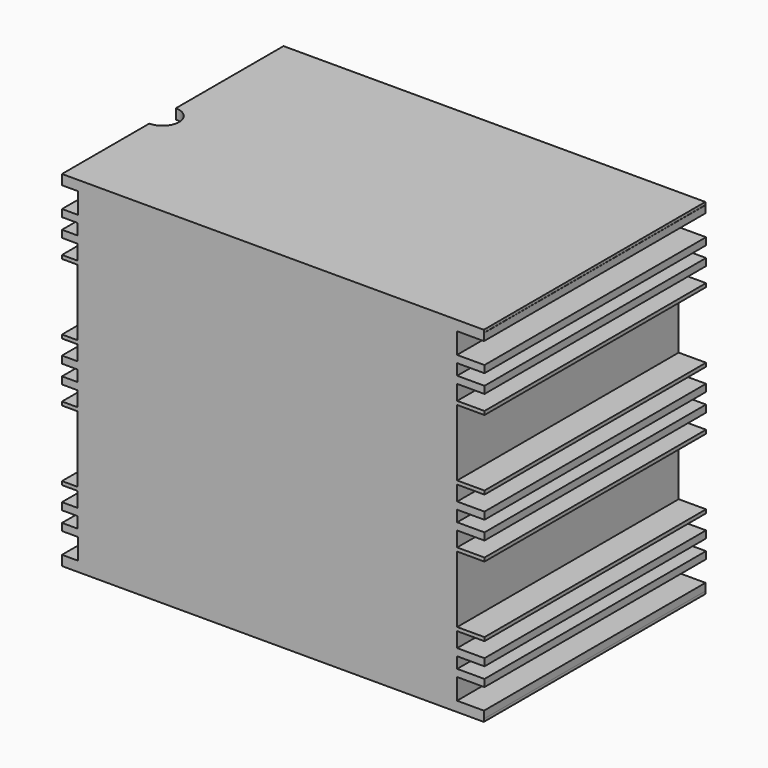
from build123d import *

# Parameters (mm, degrees)
F0_W          = 76.1676803231
F0_H          = 0.5
F0_W_2        = 68.4088433627
F0_H_2        = 3.77
F0_W_3        = 68.5331546701
F0_H_3        = 2.7
F0_H_4        = 2
F0_H_5        = 12
F1_DEPTH      = 50
F2_R          = 3
F3_DEPTH      = 70
F3_DEPTH_BACK = 0.501


with BuildPart() as f1:
    # F0 (on Front) → F1 (new body)
    with BuildSketch(Plane.XZ):
        Polygon((76.1676803231, 0), (0, 0), (0, -1.3), (2.9238497373, -1.3), (71.3326931, -1.3), (76.1956498027, -1.3), (76.1956498027, 0), align=None)
        Polygon((71.3326931, -60.04), (2.9238497373, -60.04), (0, -60.04), (0, -61.34), (76.1676803231, -61.34), (76.1956498027, -61.34), (76.1956498027, -60.04), align=None)
        Polygon((71.3326931, -5.07), (2.9238497373, -5.07), (0, -5.07), (0, -6.37), (2.8266510926, -6.37), (71.3598057628, -6.37), (76.290667057, -6.37), (76.290667057, -5.07), align=None)
        Polygon((71.3598057628, -8.37), (2.8266510926, -8.37), (0, -8.37), (0, -9.67), (2.8266510926, -9.67), (71.3598057628, -9.67), (76.290667057, -9.67), (76.290667057, -8.37), align=None)
        Polygon((71.3598057628, -51.67), (2.8266510926, -51.67), (0, -51.67), (0, -52.97), (2.8266510926, -52.97), (71.3598057628, -52.97), (76.290667057, -52.97), (76.290667057, -51.67), align=None)
        Polygon((71.3598057628, -12.37), (2.8266510926, -12.37), (0, -12.37), (0, -13.02), (2.8266510926, -13.02), (71.3598057628, -13.02), (76.290667057, -13.02), (76.290667057, -12.37), align=None)
        Polygon((71.3598057628, -25.02), (2.8266510926, -25.02), (0, -25.02), (0, -25.67), (2.8266510926, -25.67), (71.3598057628, -25.67), (76.290667057, -25.67), (76.290667057, -25.02), align=None)
        Polygon((71.3598057628, -54.97), (2.8266510926, -54.97), (0, -54.97), (0, -56.27), (2.9238497373, -56.27), (71.3326931, -56.27), (76.290667057, -56.27), (76.290667057, -54.97), align=None)
        Polygon((71.3598057628, -31.67), (2.8266510926, -31.67), (0, -31.67), (0, -32.97), (2.8266510926, -32.97), (71.3598057628, -32.97), (76.290667057, -32.97), (76.290667057, -31.67), align=None)
        Polygon((71.3598057628, -28.37), (2.8266510926, -28.37), (0, -28.37), (0, -29.67), (2.8266510926, -29.67), (71.3598057628, -29.67), (76.290667057, -29.67), (76.290667057, -28.37), align=None)
        with Locations((38.0838401616, 0.25)):
            Rectangle(F0_W, F0_H)
        with Locations((38.0838401616, -61.59)):
            Rectangle(F0_W, F0_H)
        Polygon((71.3598057628, -48.32), (2.8266510926, -48.32), (0, -48.32), (0, -48.97), (2.8266510926, -48.97), (71.3598057628, -48.97), (76.290667057, -48.97), (76.290667057, -48.32), align=None)
        Polygon((71.3598057628, -35.67), (2.8266510926, -35.67), (0, -35.67), (0, -36.32), (2.8266510926, -36.32), (71.3598057628, -36.32), (76.290667057, -36.32), (76.290667057, -35.67), align=None)
        with Locations((37.1282714186, -58.155)):
            Rectangle(F0_W_2, F0_H_2)
        with Locations((37.0932284277, -11.02)):
            Rectangle(F0_W_3, F0_H_3)
        with Locations((37.0932284277, -7.37)):
            Rectangle(F0_W_3, F0_H_4)
        with Locations((37.0932284277, -42.32)):
            Rectangle(F0_W_3, F0_H_5)
        with Locations((37.0932284277, -34.32)):
            Rectangle(F0_W_3, F0_H_3)
        with Locations((37.0932284277, -53.97)):
            Rectangle(F0_W_3, F0_H_4)
        with Locations((37.0932284277, -27.02)):
            Rectangle(F0_W_3, F0_H_3)
        with Locations((37.0932284277, -30.67)):
            Rectangle(F0_W_3, F0_H_4)
        with Locations((37.0932284277, -19.02)):
            Rectangle(F0_W_3, F0_H_5)
        with Locations((37.0932284277, -50.32)):
            Rectangle(F0_W_3, F0_H_3)
        with Locations((37.1282714186, -3.185)):
            Rectangle(F0_W_2, F0_H_2)
    extrude(amount=F1_DEPTH)

    # F2 (on Top) → F3 (cut, two sides)
    with BuildSketch(Plane.XY) as f3_sk:
        with Locations((0, -27.3095168173)):
            Circle(F2_R)
    extrude(amount=-F3_DEPTH, mode=Mode.SUBTRACT)
    extrude(f3_sk.sketch, amount=F3_DEPTH_BACK, mode=Mode.SUBTRACT)


solid = f1.part
